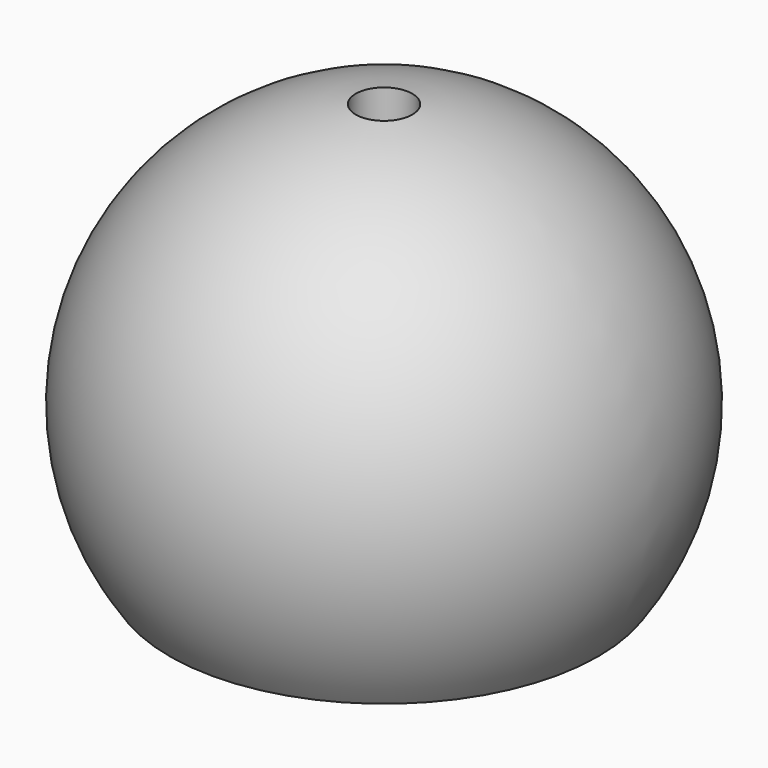
from build123d import *

# Parameters (mm, degrees)
F5_W     = 42.267536
F5_H     = 10.794579
F6_DEPTH = 30
F7_R     = 1.875564
F8_DEPTH = 25


with BuildPart() as f1:
    # F0 (on Front) → F1 (revolve)
    with BuildSketch(Plane.XZ):
        with BuildLine():
            Line((0, 0), (0, -17.5))
            ThreePointArc((0, -17.5), (17.5, 0), (0, 17.5))
            Line((0, 17.5), (0, 0))
        make_face()
    revolve(axis=Axis((0, 0, -8.75), (0, 0, -1)))


with BuildPart() as f3:
    # F2 (on Front) → F3 (revolve)
    with BuildSketch(Plane.XZ):
        with BuildLine():
            Line((0, 15), (0, -15))
            ThreePointArc((0, -15), (15, 0), (0, 15))
        make_face()
    revolve(axis=Axis((0, 0, 8.75), (0, 0, 1)))


with BuildPart() as f1_1:
    add(f1.part)

    # F4: cut F3
    add(f3.part, mode=Mode.SUBTRACT)

    # F5 (on Front) → F6 (cut, symmetric)
    with BuildSketch(Plane.XZ):
        with Locations((1.34061, -15.593321)):
            Rectangle(F5_W, F5_H)
    extrude(amount=F6_DEPTH, both=True, mode=Mode.SUBTRACT)

    # F7 (on Top) → F8 (cut)
    with BuildSketch(Plane.XY):
        Circle(F7_R)
    extrude(amount=F8_DEPTH, mode=Mode.SUBTRACT)


solid = f1_1.part
